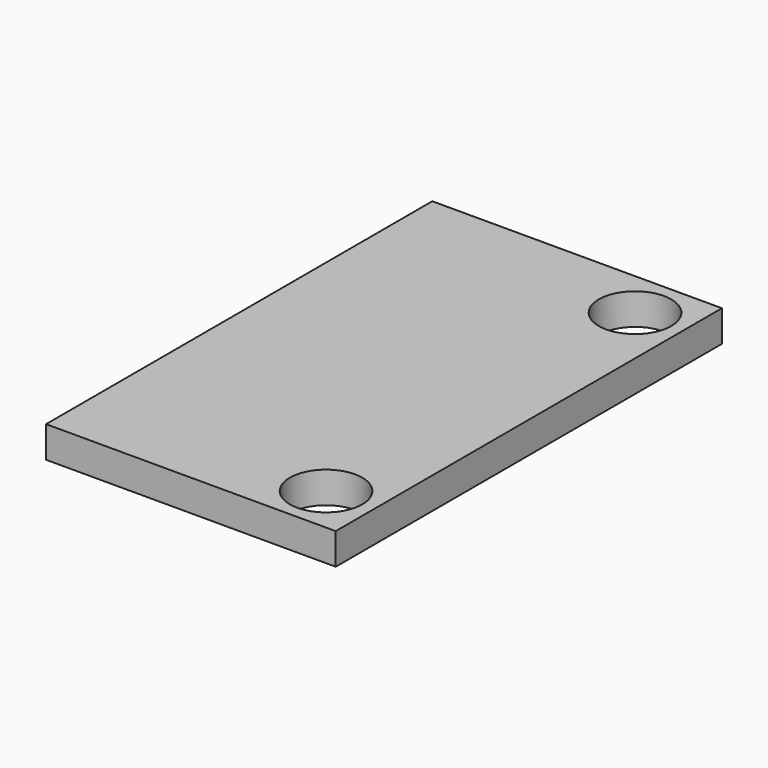
from build123d import *

# Parameters (mm, degrees)
SKETCH253_W     = 12
SKETCH253_H     = 20
PAD126_DEPTH    = 1.3
SKETCH254_R     = 1.5
POCKET110_DEPTH = 3


with BuildPart() as part:
    # Sketch253 → Pad126 (new body)
    with BuildSketch(Plane(origin=(0, 0, -20), x_dir=(1, 0, 0), z_dir=(0, 0, -1))):
        with Locations((-11, 0)):
            Rectangle(SKETCH253_W, SKETCH253_H)
    extrude(amount=PAD126_DEPTH)

    # Sketch254 → Pocket110 (cut)
    with BuildSketch(Plane(origin=(0, 0, -20), x_dir=(1, 0, 0), z_dir=(0, 0, -1))):
        with Locations((-7, 8)):
            Circle(SKETCH254_R)
        with Locations((-7, -8)):
            Circle(SKETCH254_R)
    extrude(amount=POCKET110_DEPTH, mode=Mode.SUBTRACT)


with BuildPart() as part_1:
    # Body028 placement: moved
    add(part.part.moved(Location((-216, 0, -9))))


solid = part_1.part
